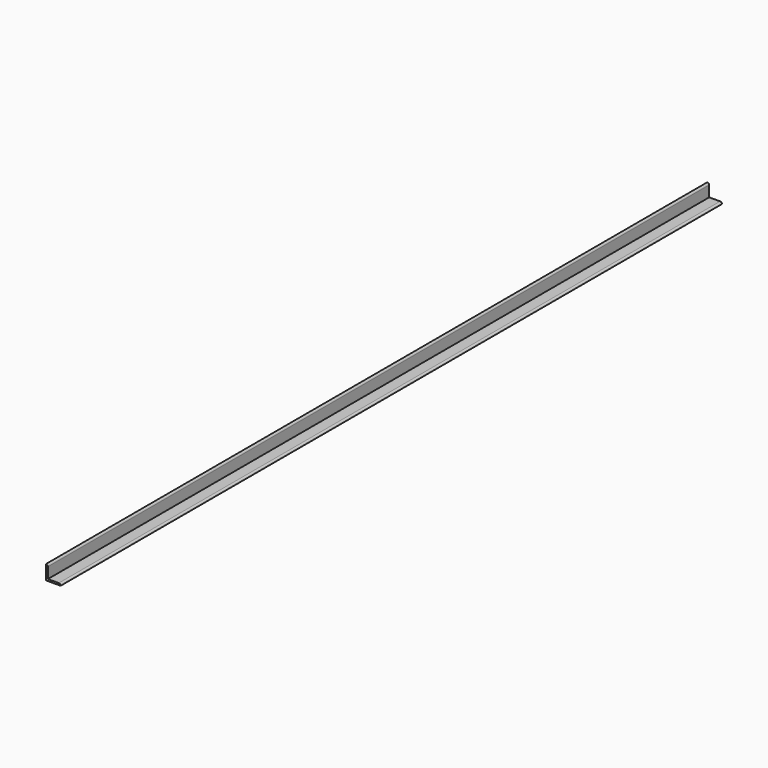
from build123d import *

# Parameters (mm, degrees)
F1_DEPTH = 2889.25


with BuildPart() as f1:
    # F0 (on Front) → F1 (new body)
    with BuildSketch(Plane.XZ):
        with BuildLine():
            Line((0, 50.8), (0, 0))
            Line((0, 0), (50.8, 0))
            ThreePointArc((50.8, 0), (48.940128, 4.490128), (44.45, 6.35))
            Line((44.45, 6.35), (6.35, 6.35))
            Line((6.35, 6.35), (6.35, 44.45))
            ThreePointArc((6.35, 44.45), (4.490128, 48.940128), (0, 50.8))
        make_face()
    extrude(amount=F1_DEPTH)


solid = f1.part
